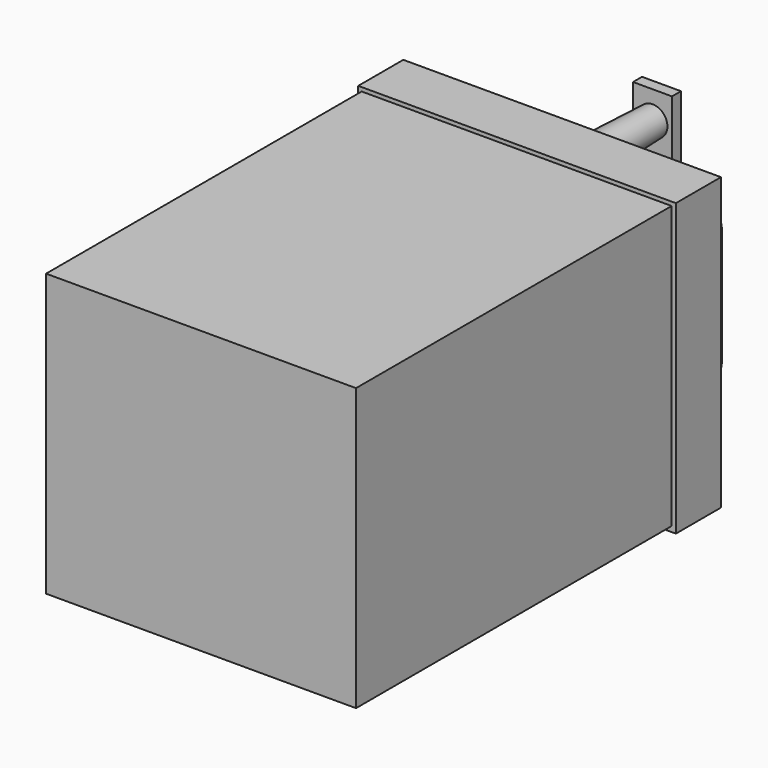
from build123d import *

# Parameters (mm, degrees)
SKETCH_W      = 550
SKETCH_H      = 500
PAD_DEPTH     = 800
PAD001_DEPTH  = 150
POCKET_DEPTH  = 140
SKETCH003_R   = 33.237299
PAD002_DEPTH  = 200
PAD002_TAPER  = 2
SKETCH004_W   = 69.108994
SKETCH004_H   = 193.223083
PAD003_DEPTH  = 20
SKETCH005_W   = 517.289068
SKETCH005_H   = 25.703766
SKETCH005_W_2 = 488.372336
SKETCH005_H_2 = 22.490784
PAD004_DEPTH  = 10
SKETCH006_W   = 563.640388
SKETCH006_H   = 516.287299
PAD005_DEPTH  = 100


with BuildPart() as part:
    # Sketch → Pad (new body)
    with BuildSketch(Plane.XZ):
        with Locations((275, 250)):
            Rectangle(SKETCH_W, SKETCH_H)
    extrude(amount=PAD_DEPTH)

    # Sketch001 (on Face5 of Pad) → Pad001 (join)
    with BuildSketch(Plane(origin=(0, 0, 0), x_dir=(1, 0, 0), z_dir=(0, 1, 0))):
        with BuildLine():
            Line((110.821515, -120.347227), (110.821515, -324.071047))
            ThreePointArc((110.821515, -324.071047), (125.466176, -359.426386), (160.821515, -374.071047))
            Line((160.821515, -374.071047), (389.285222, -374.071047))
            ThreePointArc((389.285222, -374.071047), (424.640561, -359.426386), (439.285222, -324.071047))
            Line((439.285222, -324.071047), (439.285222, -120.347227))
            ThreePointArc((439.285222, -120.347227), (424.640561, -84.991888), (389.285222, -70.347227))
            Line((389.285222, -70.347227), (160.821515, -70.347227))
            ThreePointArc((160.821515, -70.347227), (125.466176, -84.991888), (110.821515, -120.347227))
        make_face()
    extrude(amount=PAD001_DEPTH)

    # Sketch002 (on Face15 of Pad001) → Pocket (cut)
    with BuildSketch(Plane(origin=(0, 150, 0), x_dir=(1, 0, 0), z_dir=(0, 1, 0))):
        with BuildLine():
            Line((131.86986, -132.675529), (131.86986, -316.786224))
            ThreePointArc((131.86986, -316.786224), (143.585589, -345.070495), (171.86986, -356.786224))
            Line((171.86986, -356.786224), (379.540297, -356.786224))
            ThreePointArc((379.540297, -356.786224), (407.824568, -345.070495), (419.540297, -316.786224))
            Line((419.540297, -316.786224), (419.540297, -132.675529))
            ThreePointArc((419.540297, -132.675529), (407.824568, -104.391258), (379.540297, -92.675529))
            Line((379.540297, -92.675529), (171.86986, -92.675529))
            ThreePointArc((171.86986, -92.675529), (143.585589, -104.391258), (131.86986, -132.675529))
        make_face()
    extrude(amount=-POCKET_DEPTH, mode=Mode.SUBTRACT)

    # Sketch003 (on Face4 of Pocket) → Pad002 (join)
    with BuildSketch(Plane(origin=(0, 0, 0), x_dir=(1, 0, 0), z_dir=(0, 1, 0))):
        with Locations((276.350006, -421.745483)):
            Circle(SKETCH003_R)
    extrude(amount=PAD002_DEPTH, taper=PAD002_TAPER)

    # Sketch004 (on Face17 of Pad002) → Pad003 (join)
    with BuildSketch(Plane(origin=(0, 200, 0), x_dir=(1, 0, 0), z_dir=(0, 1, 0))):
        with Locations((276.075752, -374.794769)):
            Rectangle(SKETCH004_W, SKETCH004_H)
    extrude(amount=PAD003_DEPTH)

    # Sketch005 (on Face1 of Pad003) → Pad004 (join)
    with BuildSketch(Plane(origin=(0, 0, 0), x_dir=(1, 0, 0), z_dir=(0, 0, -1))):
        with Locations((277.28729, 230.829208)):
            Rectangle(SKETCH005_W, SKETCH005_H)
        with Locations((272.467824, 524.816498)):
            Rectangle(SKETCH005_W_2, SKETCH005_H_2)
    extrude(amount=PAD004_DEPTH)

    # Sketch006 (on Face3 of Pad004) → Pad005 (join)
    with BuildSketch(Plane(origin=(0, 0, 0), x_dir=(1, 0, 0), z_dir=(0, 1, 0))):
        with Locations((275.736264, -248.714535)):
            Rectangle(SKETCH006_W, SKETCH006_H)
    extrude(amount=-PAD005_DEPTH)


solid = part.part
